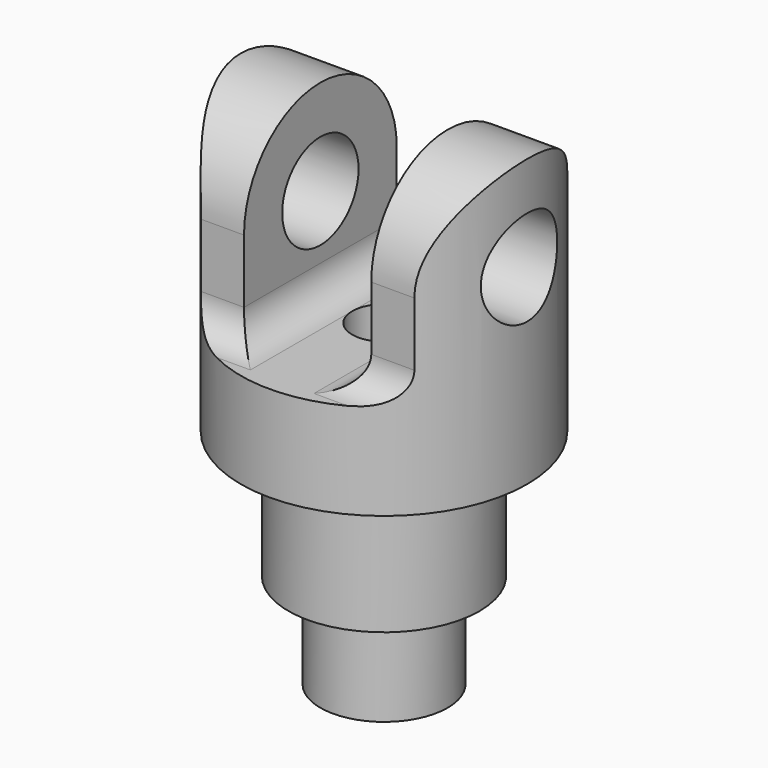
from build123d import *

# Parameters (mm, degrees)
F0_R     = 45
F0_R_2   = 30
F0_R_3   = 20
F1_DEPTH = 90
F2_DEPTH = 70
F3_DEPTH = 40
F5_DEPTH = 50
F4_R     = 15
F6_DEPTH = 50
F8_DEPTH = 50
F10_D    = 20


with BuildPart() as f1:
    # F0 (on Top) → F1 (new body)
    with BuildSketch(Plane.XY):
        Circle(F0_R)
        Circle(F0_R_2, mode=Mode.SUBTRACT)
        Circle(F0_R_2)
        Circle(F0_R_3, mode=Mode.SUBTRACT)
        Circle(F0_R_3)
    extrude(amount=F1_DEPTH)

    # F0 (on Top) → F2 (join)
    with BuildSketch(Plane.XY):
        Circle(F0_R_3)
    extrude(amount=-F2_DEPTH)

    # F0 (on Top) → F3 (join)
    with BuildSketch(Plane.XY):
        Circle(F0_R_2)
        Circle(F0_R_3, mode=Mode.SUBTRACT)
    extrude(amount=-F3_DEPTH)

    # F4 (on Right) → F5 (cut, symmetric)
    with BuildSketch(Plane.YZ):
        with BuildLine():
            Line((-82.7872549732, 115.9372627735), (-82.7872549732, 30))
            Line((-82.7872549732, 30), (-40, 30))
            ThreePointArc((-40, 30), (-32.9289321881, 32.9289321881), (-30, 40))
            Line((-30, 40), (-30, 60))
            ThreePointArc((-30, 60), (0, 90), (30, 60))
            Line((30, 60), (30, 40))
            ThreePointArc((30, 40), (32.9289321881, 32.9289321881), (40, 30))
            Line((40, 30), (82.7872549732, 30))
            Line((82.7872549732, 30), (82.7872549732, 115.9372627735))
            Line((82.7872549732, 115.9372627735), (-82.7872549732, 115.9372627735))
        make_face()
    extrude(amount=F5_DEPTH, both=True, mode=Mode.SUBTRACT)

    # F4 (on Right) → F6 (cut, symmetric)
    with BuildSketch(Plane.YZ):
        with Locations((0, 60)):
            Circle(F4_R)
    extrude(amount=F6_DEPTH, both=True, mode=Mode.SUBTRACT)

    # F7 (on Front) → F8 (cut, symmetric)
    with BuildSketch(Plane.XZ):
        with BuildLine():
            Line((20, 128.1329473248), (-20, 128.1329473248))
            Line((-20, 128.1329473248), (-20, 40))
            ThreePointArc((-20, 40), (-17.0710678119, 32.9289321881), (-10, 30))
            Line((-10, 30), (10, 30))
            ThreePointArc((10, 30), (17.0710678119, 32.9289321881), (20, 40))
            Line((20, 40), (20, 128.1329473248))
        make_face()
    extrude(amount=F8_DEPTH, both=True, mode=Mode.SUBTRACT)

    # F10 (through all)
    with Locations(Plane(origin=(0, 0, -70), x_dir=(1, 0, 0), z_dir=(0, 0, -1))):
        with Locations((0, 0)):
            Hole(F10_D / 2)


solid = f1.part
